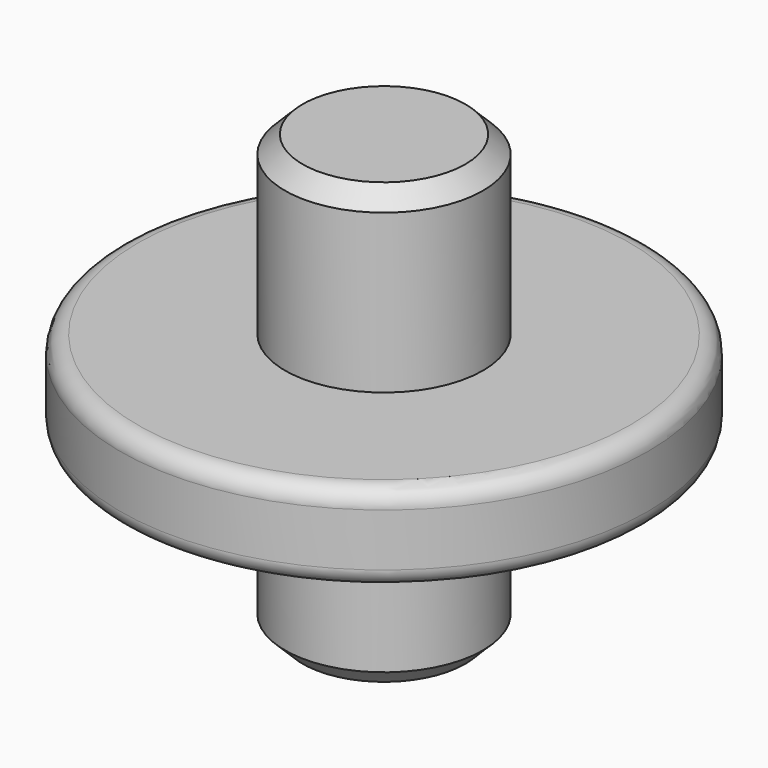
from build123d import *

# Parameters (mm, degrees)
F2_R    = 1.27
F3_SIZE = 1.27


with BuildPart() as f1:
    # F0 (on Front) → F1 (revolve)
    with BuildSketch(Plane.XZ):
        Polygon((7.14375, 19.05), (0, 19.05), (0, -12.7), (7.14375, -12.7), (7.14375, 0), (19.05, 0), (19.05, 6.35), (7.14375, 6.35), align=None)
    revolve(axis=Axis((0, 0, 3.175), (0, 0, -1)))

    # F2
    f2_edges = [f1.edges().sort_by_distance(p)[0] for p in [
        (-19.05, 0, 6.35),
        (-19.05, 0, 0),
    ]]
    fillet(f2_edges, radius=F2_R)

    # F3
    f3_edges = [f1.edges().sort_by_distance(p)[0] for p in [
        (-7.14375, 0, 19.05),
        (-7.14375, 0, -12.7),
    ]]
    chamfer(f3_edges, length=F3_SIZE)


solid = f1.part
